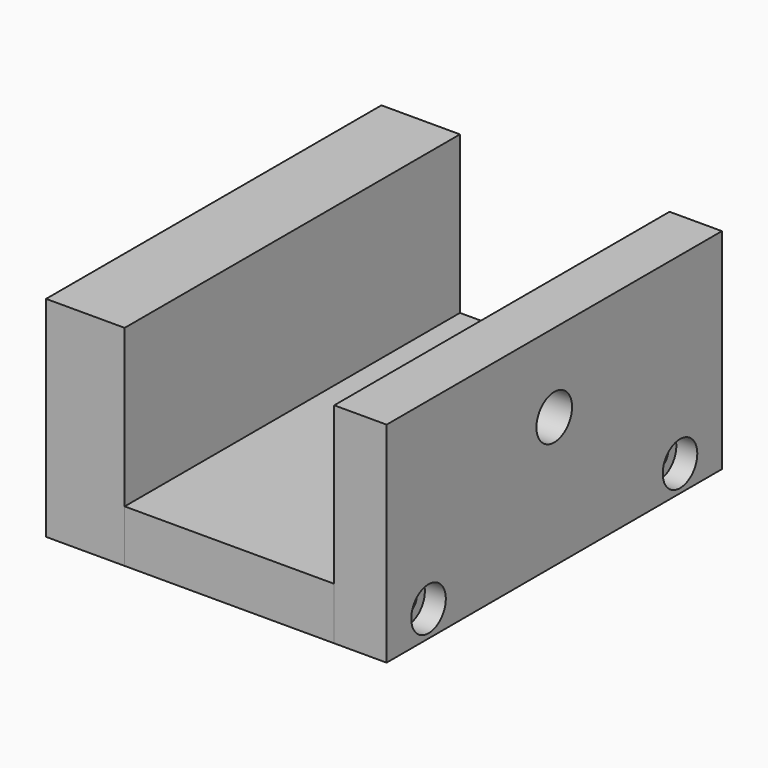
from build123d import *

# Parameters (mm, degrees)
F0_W           = 40
F0_H           = 80
F1_DEPTH       = 10
F0_W_2         = 15
F2_DEPTH       = 40
F0_W_3         = 10
F4_D           = 4.4
F4_CBORE_D     = 8.25
F4_CBORE_DEPTH = 4
F5_D           = 3.3
F5_DEPTH       = 20
F5_START       = 10
F5_TIP         = 0.9914200214
F7_D           = 4.4
F7_CBORE_D     = 8.25
F7_CBORE_DEPTH = 4
F8_D           = 3.3
F8_DEPTH       = 20
F8_START       = 15
F8_TIP         = 0.9914200214
F9_D           = 8.5


with BuildPart() as f1:
    # F0 (on Top) → F1 (new body)
    with BuildSketch(Plane.XY):
        with Locations((-22.8335411847, 9.2648183657)):
            Rectangle(F0_W, F0_H)
    extrude(amount=F1_DEPTH)

    # F5
    # its depths count from where the whole tool has entered the part; down to there all is cleared
    with Locations(Plane.YZ.offset(7.1664588153).offset(-F5_START)):
        with Locations((-20.7351816343, 5), (39.2648183657, 5)):
            Hole(F5_D / 2, depth=F5_DEPTH)
            with Locations((0, 0, -(F5_DEPTH + F5_TIP / 2))):  # 118° drill point
                Cone(0, F5_D / 2, F5_TIP, mode=Mode.SUBTRACT)

    # F8
    # its depths count from where the whole tool has entered the part; down to there all is cleared
    with Locations(Plane(origin=(-57.8335411847, 0, 0), x_dir=(0, -1, 0), z_dir=(-1, 0, 0)).offset(-F8_START)):
        with Locations((-39.2648183657, 5), (20.7351816343, 5)):
            Hole(F8_D / 2, depth=F8_DEPTH)
            with Locations((0, 0, -(F8_DEPTH + F8_TIP / 2))):  # 118° drill point
                Cone(0, F8_D / 2, F8_TIP, mode=Mode.SUBTRACT)


with BuildPart() as f2:
    # F0 (on Top) → F2 (new body)
    with BuildSketch(Plane.XY):
        with Locations((-50.3335411847, 9.2648183657)):
            Rectangle(F0_W_2, F0_H)
    extrude(amount=F2_DEPTH)

    # F7 (through all)
    with Locations(Plane(origin=(-57.8335411847, 0, 0), x_dir=(0, -1, 0), z_dir=(-1, 0, 0))):
        with Locations((-39.2648183657, 5), (20.7351816343, 5)):
            CounterBoreHole(F7_D / 2, F7_CBORE_D / 2, F7_CBORE_DEPTH)


with BuildPart() as f2b:
    # F0 (on Top) → F2, piece 2 (new body)
    with BuildSketch(Plane.XY):
        with Locations((2.1664588153, 9.2648183657)):
            Rectangle(F0_W_3, F0_H)
    extrude(amount=F2_DEPTH)

    # F4 (through all)
    with Locations(Plane.YZ.offset(7.1664588153)):
        with Locations((-20.7351816343, 5), (39.2648183657, 5)):
            CounterBoreHole(F4_D / 2, F4_CBORE_D / 2, F4_CBORE_DEPTH)

    # F9 (through all)
    with Locations(Plane(origin=(-57.8335411847, 0, 0), x_dir=(0, -1, 0), z_dir=(-1, 0, 0))):
        with Locations((-9.2648183657, 25)):
            Hole(F9_D / 2)


solid = Compound([f1.part, f2.part, f2b.part])
